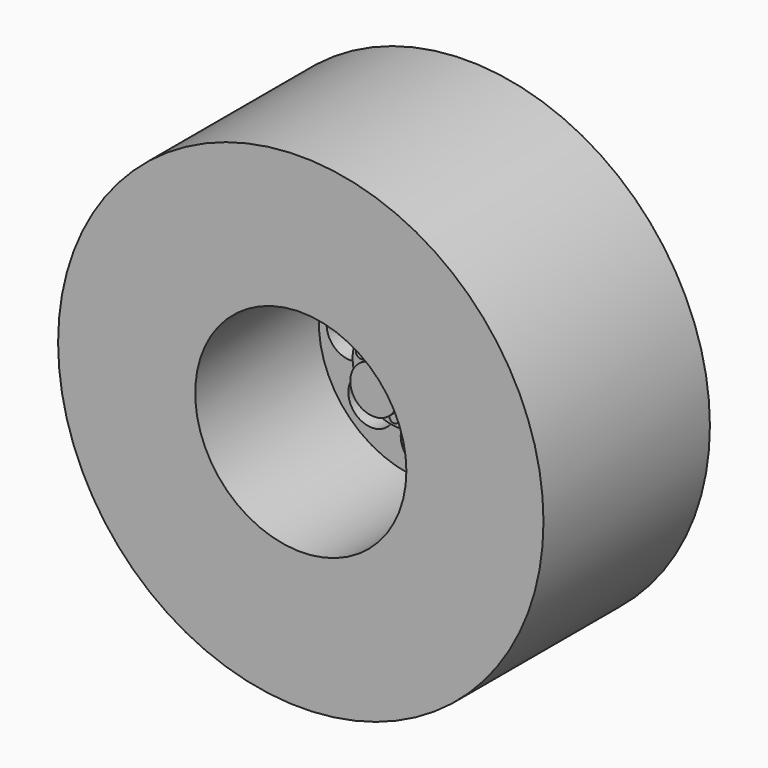
from build123d import *

# Parameters (mm, degrees)
F0_R      = 19.558
F1_DEPTH  = 16.764
F2_R      = 8.509
F3_DEPTH  = 12.446
F4_R      = 18.034
F4_R_2    = 9.652
F5_DEPTH  = 15.24
F6_R      = 9.652
F7_DEPTH  = 2.032
F8_R      = 1.905
F9_DEPTH  = 25.4
F10_R     = 1.905
F11_DEPTH = 5.08
F10_R_2   = 3.7465
F12_DEPTH = 2.54
F13_R     = 0.381
F14_DEPTH = 0.508
F15_R     = 1.5875
F16_DEPTH = 5.8674


with BuildPart() as f1:
    # F0 (on Front) → F1 (new body)
    with BuildSketch(Plane.XZ):
        Circle(F0_R)
    extrude(amount=F1_DEPTH)

    # F2 (on face) → F3 (cut)
    with BuildSketch(Plane.XZ.offset(16.764)):
        Circle(F2_R)
    extrude(amount=-F3_DEPTH, mode=Mode.SUBTRACT)

    # F4 (on face) → F5 (cut)
    with BuildSketch(Plane(origin=(0, 0, 0), x_dir=(-1, 0, 0), z_dir=(0, 1, 0))):
        Circle(F4_R)
        Circle(F4_R_2, mode=Mode.SUBTRACT)
    extrude(amount=-F5_DEPTH, mode=Mode.SUBTRACT)

    # F6 (on face) → F7 (cut)
    with BuildSketch(Plane(origin=(0, 0, 0), x_dir=(-1, 0, 0), z_dir=(0, 1, 0))):
        Circle(F6_R)
    extrude(amount=-F7_DEPTH, mode=Mode.SUBTRACT)

    # F8 (on face) → F9 (cut)
    with BuildSketch(Plane(origin=(0, -2.032, 0), x_dir=(-1, 0, 0), z_dir=(0, 1, 0))):
        with Locations((4.22072, -4.22072)):
            Circle(F8_R)
        with Locations((5.969, 0)):
            Circle(F8_R)
        with Locations((4.22072, 4.22072)):
            Circle(F8_R)
        with Locations((0, 5.969)):
            Circle(F8_R)
        with Locations((-4.22072, 4.22072)):
            Circle(F8_R)
        with Locations((-5.969, 0)):
            Circle(F8_R)
        with Locations((-4.22072, -4.22072)):
            Circle(F8_R)
        with Locations((0, -5.969)):
            Circle(F8_R)
    extrude(amount=-F9_DEPTH, mode=Mode.SUBTRACT)

    # F10 (on face) → F11 (join)
    with BuildSketch(Plane.XZ.offset(4.318)):
        Circle(F10_R)
    extrude(amount=F11_DEPTH)

    # F10 (on face) → F12 (join)
    with BuildSketch(Plane.XZ.offset(4.318)):
        Circle(F10_R_2)
        Circle(F10_R, mode=Mode.SUBTRACT)
    extrude(amount=F12_DEPTH)

    # F13 (on face) → F14 (join)
    with BuildSketch(Plane.XZ.offset(6.858)):
        with Locations((0, 2.82575)):
            Circle(F13_R)
        with Locations((-1.660934, 2.28608)):
            Circle(F13_R)
        with Locations((-2.687448, 0.873205)):
            Circle(F13_R)
        with Locations((-2.687448, -0.873205)):
            Circle(F13_R)
        with Locations((-1.660934, -2.28608)):
            Circle(F13_R)
        with Locations((0, -2.82575)):
            Circle(F13_R)
        with Locations((1.660934, -2.28608)):
            Circle(F13_R)
        with Locations((2.687448, -0.873205)):
            Circle(F13_R)
        with Locations((2.687448, 0.873205)):
            Circle(F13_R)
        with Locations((1.660934, 2.28608)):
            Circle(F13_R)
    extrude(amount=F14_DEPTH)

    # F15 (on face) → F16 (cut)
    with BuildSketch(Plane(origin=(0, -2.032, 0), x_dir=(-1, 0, 0), z_dir=(0, 1, 0))):
        Circle(F15_R)
    extrude(amount=-F16_DEPTH, mode=Mode.SUBTRACT)


solid = f1.part
